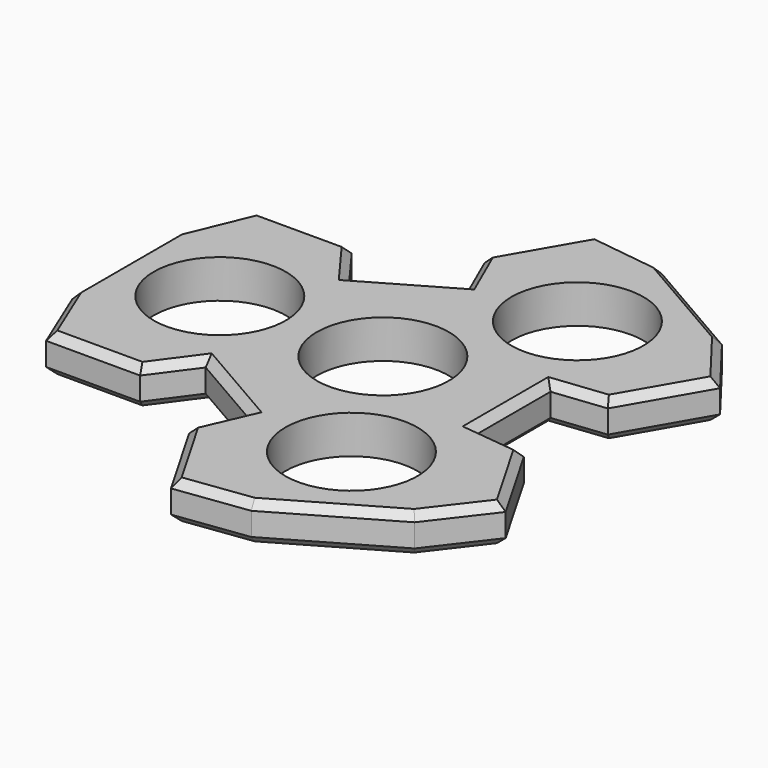
from build123d import *

# Parameters (mm, degrees)
F1_DEPTH = 6.35
F2_D     = 21.844
F3_SIZE  = 1.27


with BuildPart() as f1:
    # F0 (on Top) → F1 (new body)
    with BuildSketch(Plane.XY):
        Polygon((12.189453, -42.452835), (21.42998, -37.117814), (30.670507, -31.782793), (38.053966, -22.170926), (30.270115, -8.688899), (21.557817, -7.71608), (21.557817, 7.71608), (30.270115, 8.688899), (38.053966, 22.170926), (30.670507, 31.782793), (21.42998, 37.117814), (12.189453, 42.452835), (0.173602, 44.041164), (-7.61025, 30.559138), (-4.096587, 22.527657), (-17.46123, 14.811577), (-22.659865, 21.870239), (-38.227568, 21.870238), (-42.85996, 10.670042), (-42.85996, 0), (-42.85996, -10.670042), (-38.227568, -21.870238), (-22.659865, -21.870239), (-17.46123, -14.811577), (-4.096587, -22.527657), (-7.61025, -30.559138), (0.173602, -44.041164), align=None)
    extrude(amount=F1_DEPTH)

    # F2 (through all)
    with Locations(Plane(origin=(0, 0, 0), x_dir=(1, 0, 0), z_dir=(0, 0, -1))):
        with Locations((13.49248, 23.369661), (0, 0), (-26.98496, 0), (13.49248, -23.369661)):
            Hole(F2_D / 2)

    # F3
    f3_edges = [f1.edges().sort_by_distance(p)[0] for p in [
        (-3.718324, 37.300151, 0),
        (-3.718324, 37.300151, 6.35),
        (6.181528, 43.247, 6.35),
        (6.181528, 43.247, 0),
        (21.42998, 37.117814, 6.35),
        (21.42998, 37.117814, 0),
        (34.362237, 26.97686, 0),
        (34.362237, 26.97686, 6.35),
        (34.16204, 15.429912, 0),
        (34.16204, 15.429912, 6.35),
        (25.913966, 8.20249, 0),
        (25.913966, 8.20249, 6.35),
        (21.557817, 0, 0),
        (21.557817, 0, 6.35),
        (25.913966, -8.20249, 0),
        (25.913966, -8.20249, 6.35),
        (34.16204, -15.429912, 0),
        (34.16204, -15.429912, 6.35),
        (34.362237, -26.97686, 0),
        (34.362237, -26.97686, 6.35),
        (21.42998, -37.117814, 0),
        (21.42998, -37.117814, 6.35),
        (6.181528, -43.247, 0),
        (6.181528, -43.247, 6.35),
        (-3.718324, -37.300151, 0),
        (-3.718324, -37.300151, 6.35),
        (-5.853418, -26.543398, 0),
        (-5.853418, -26.543398, 6.35),
        (-10.778908, -18.669617, 0),
        (-10.778908, -18.669617, 6.35),
        (-20.060547, -18.340908, 6.35),
        (-20.060547, -18.340908, 0),
        (-30.443716, -21.870239, 6.35),
        (-30.443716, -21.870239, 0),
        (-40.543764, -16.27014, 6.35),
        (-40.543764, -16.27014, 0),
        (-42.85996, 0, 6.35),
        (-42.85996, 0, 0),
        (-40.543764, 16.27014, 6.35),
        (-40.543764, 16.27014, 0),
        (-30.443716, 21.870239, 6.35),
        (-30.443716, 21.870239, 0),
        (-20.060547, 18.340908, 6.35),
        (-20.060547, 18.340908, 0),
        (-10.778908, 18.669617, 6.35),
        (-10.778908, 18.669617, 0),
        (-5.853418, 26.543398, 0),
        (-5.853418, 26.543398, 6.35),
    ]]
    chamfer(f3_edges, length=F3_SIZE)


solid = f1.part
